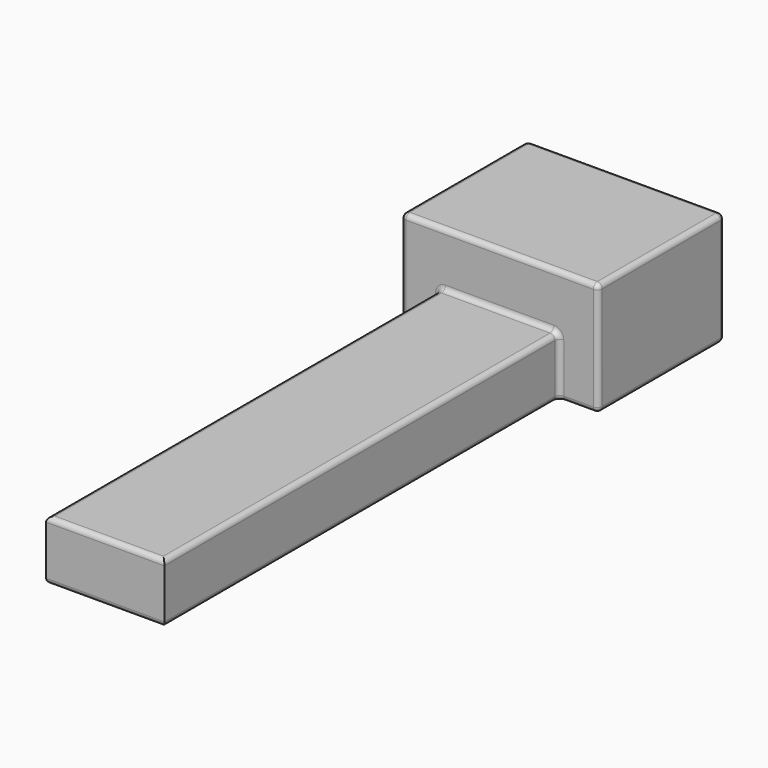
from build123d import *

# Parameters (mm, degrees)
F0_W     = 20
F0_H     = 16
F1_DEPTH = 11.5
F2_W     = 12
F2_H     = 50
F3_DEPTH = 6
F4_R     = 0.5


with BuildPart() as f1:
    # F0 (on Top) → F1 (new body)
    with BuildSketch(Plane.XY):
        Rectangle(F0_W, F0_H)
    extrude(amount=F1_DEPTH)

    # F2 (on Top) → F3 (join)
    with BuildSketch(Plane.XY):
        with Locations((0, -33)):
            Rectangle(F2_W, F2_H)
    extrude(amount=F3_DEPTH)

    # F4
    f4_edges = [f1.edges().sort_by_distance(p)[0] for p in [
        (10, 0, 0),
        (0, 8, 0),
        (-10, 0, 0),
        (-8, -8, 0),
        (-6, -33, 0),
        (0, -58, 0),
        (6, -33, 0),
        (8, -8, 0),
        (10, 0, 11.5),
        (0, 8, 11.5),
        (-10, 0, 11.5),
        (0, -8, 11.5),
        (6, -33, 6),
        (0, -8, 6),
        (-6, -33, 6),
        (0, -58, 6),
        (10, 8, 5.75),
        (-10, 8, 5.75),
        (-6, -8, 3),
        (6, -8, 3),
        (10, -8, 5.75),
        (-10, -8, 5.75),
    ]]
    fillet(f4_edges, radius=F4_R)


solid = f1.part
